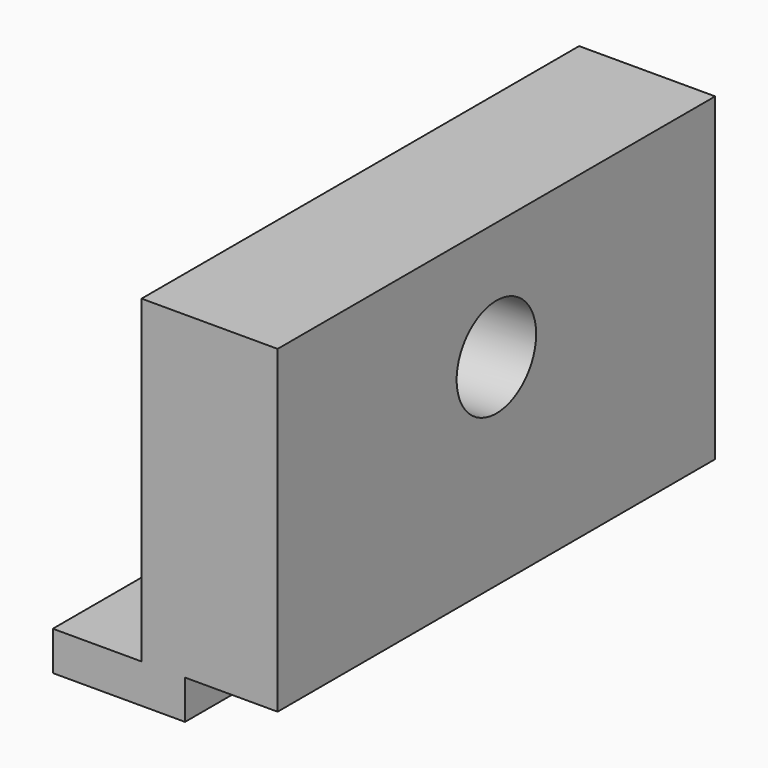
from build123d import *

# Parameters (mm, degrees)
F0_W     = 5.588
F0_H     = 23.114
F1_DEPTH = 1.651
F2_W     = 5.75
F2_H     = 23.114
F3_DEPTH = 13.5
F4_R     = 2.1
F5_DEPTH = 25.4
F6_R     = 4
F7_DEPTH = 2.5


with BuildPart() as f1:
    # F0 (on Top) → F1 (new body)
    with BuildSketch(Plane.XY):
        Rectangle(F0_W, F0_H)
    extrude(amount=F1_DEPTH)

    # F2 (on face) → F3 (join)
    with BuildSketch(Plane.XY.offset(1.651)):
        with Locations((3.831, 0)):
            Rectangle(F2_W, F2_H)
    extrude(amount=F3_DEPTH)

    # F4 (on face) → F5 (cut)
    with BuildSketch(Plane.YZ.offset(6.706)):
        with Locations((0, 10.151)):
            Circle(F4_R)
    extrude(amount=-F5_DEPTH, mode=Mode.SUBTRACT)

    # F6 (on face) → F7 (cut)
    with BuildSketch(Plane(origin=(0.956, 0, 0), x_dir=(0, -1, 0), z_dir=(-1, 0, 0))):
        with Locations((0, 10.151)):
            Circle(F6_R)
    extrude(amount=-F7_DEPTH, mode=Mode.SUBTRACT)


solid = f1.part
